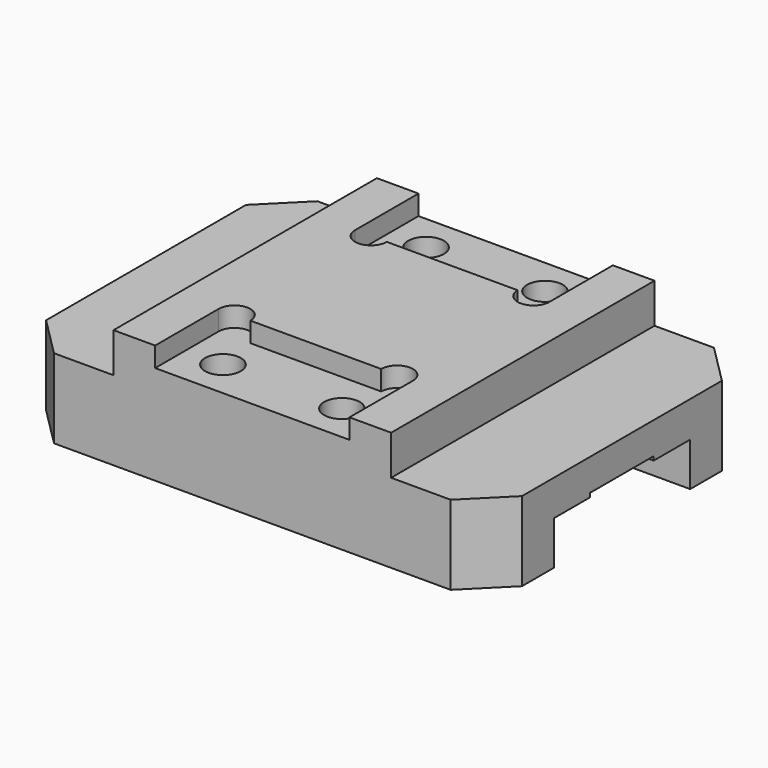
from build123d import *

# Parameters (mm, degrees)
F0_W            = 25
F0_H            = 41.5
F1_DEPTH        = 30
F2_W            = 25
F2_H            = 41.5
F3_DEPTH        = 10
F4_SIZE         = 10
F6_DEPTH        = 5
F8_DEPTH        = 60.001
F10_D           = 9
F10_CBORE_D     = 15
F10_CBORE_DEPTH = 8.5


with BuildPart() as f1:
    # F0 (on Top) → F1 (new body)
    with BuildSketch(Plane.XY):
        with BuildLine():
            Line((0, -21.5), (0, 0))
            Line((0, 0), (-35, 0))
            Line((-35, 0), (-35, -41.5))
            Line((-35, -41.5), (-24.5, -41.5))
            Line((-24.5, -41.5), (-24.5, -21.5))
            ThreePointArc((-24.5, -21.5), (-20.5, -17.5), (-16.5, -21.5))
            Line((-16.5, -21.5), (0, -21.5))
        make_face()
        with Locations((-47.5, -20.75)):
            Rectangle(F0_W, F0_H)
        with BuildLine():
            Line((0, -21.5), (0, 0))
            Line((0, 0), (-35, 0))
            Line((-35, 0), (-35, -41.5))
            Line((-35, -41.5), (-24.5, -41.5))
            Line((-24.5, -41.5), (-24.5, -21.5))
            ThreePointArc((-24.5, -21.5), (-20.5, -17.5), (-16.5, -21.5))
            Line((-16.5, -21.5), (0, -21.5))
        make_face()
        with BuildLine():
            Line((0, -41.5), (0, -21.5))
            Line((0, -21.5), (-16.5, -21.5))
            ThreePointArc((-16.5, -21.5), (-20.5, -17.5), (-24.5, -21.5))
            Line((-24.5, -21.5), (-24.5, -41.5))
            Line((-24.5, -41.5), (0, -41.5))
        make_face()
    extrude(amount=F1_DEPTH)

    # F2 (on face) → F3 (cut)
    with BuildSketch(Plane.XY.offset(30)):
        with Locations((-47.5, -20.75)):
            Rectangle(F2_W, F2_H)
    extrude(amount=-F3_DEPTH, mode=Mode.SUBTRACT)

    # F4
    f4_edges = [f1.edges().sort_by_distance(p)[0] for p in [
        (-60, -41.5, 10),
    ]]
    chamfer(f4_edges, length=F4_SIZE)

    # F5 (on face) → F6 (cut)
    with BuildSketch(Plane.XY.offset(30)):
        with BuildLine():
            Line((0, -21.5), (-16.5, -21.5))
            ThreePointArc((-16.5, -21.5), (-20.5, -17.5), (-24.5, -21.5))
            Line((-24.5, -21.5), (-24.5, -41.5))
            Line((-24.5, -41.5), (0, -41.5))
            Line((0, -41.5), (0, -21.5))
        make_face()
    extrude(amount=-F6_DEPTH, mode=Mode.SUBTRACT)

    # F7 (on Right) → F8 (cut, through all)
    with BuildSketch(Plane.YZ):
        Polygon((0, 0), (0, 12), (-10, 12), (-10, 11), (-21.5, 11), (-21.5, 0), align=None)
    extrude(amount=-F8_DEPTH, mode=Mode.SUBTRACT)

    # F10 (through all)
    with Locations(Plane(origin=(0, 0, 0), x_dir=(1, 0, 0), z_dir=(0, 0, -1))):
        with Locations((-15, 32)):
            CounterBoreHole(F10_D / 2, F10_CBORE_D / 2, F10_CBORE_DEPTH)

    # F11: F1 across plane


with BuildPart() as f1_1:
    add(f1.part)
    add(f1.part.mirror(Plane.YZ))

    # F12: F1 across plane


with BuildPart() as f1_2:
    add(f1_1.part)
    add(f1_1.part.mirror(Plane.XZ))


solid = f1_2.part
